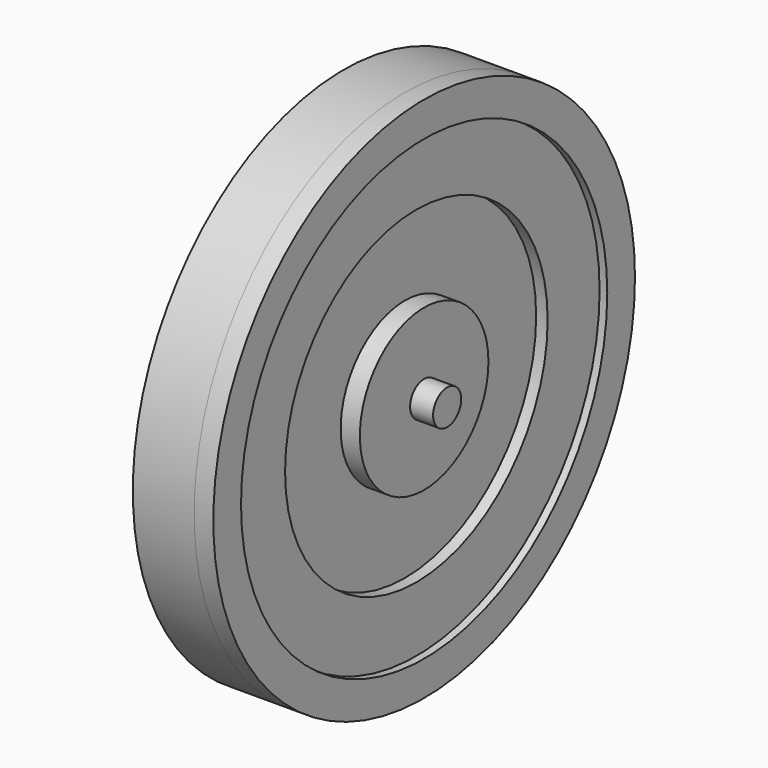
from build123d import *

# Parameters (mm, degrees)
F0_R      = 17.4625
F2_DEPTH  = 4.064
F1_R      = 17.4625
F4_R      = 15.1671185888
F4_R_2    = 10.8740036782
F6_DEPTH  = 0.762
F7_R      = 5.3249265158
F8_DEPTH  = 1.27
F5_R      = 17.4625
F5_R_2    = 15.1671185888
F9_R      = 1.1627372516
F10_DEPTH = 1.524


with BuildPart() as f2:
    # F0 (on Right) → F2 (new body)
    with BuildSketch(Plane.YZ):
        with Locations((16.3829997182, 19.938999787)):
            Circle(F0_R)
    extrude(amount=F2_DEPTH)


with BuildPart() as f2b:
    # F1 (on face) → F2, piece 2 (new body)
    with BuildSketch(Plane.YZ):
        with Locations((16.3829997182, 19.938999787)):
            Circle(F1_R)
    extrude(amount=F2_DEPTH)


with BuildPart() as f6:
    # F4 (on face) → F6 (new body)
    with BuildSketch(Plane.YZ.offset(4.064)):
        with Locations((16.3829997182, 19.938999787)):
            Circle(F4_R)
        with Locations((16.3731891662, 19.9432447553)):
            Circle(F4_R_2, mode=Mode.SUBTRACT)
    extrude(amount=F6_DEPTH)


with BuildPart() as f8:
    # F7 (on face) → F8 (new body)
    with BuildSketch(Plane.YZ.offset(4.064)):
        with Locations((16.3819398731, 19.9396852404)):
            Circle(F7_R)
    extrude(amount=F8_DEPTH)

    # F9 (on face) → F10 (join)
    with BuildSketch(Plane.YZ.offset(5.334)):
        with Locations((16.3819398731, 19.9396852404)):
            Circle(F9_R)
    extrude(amount=F10_DEPTH)


with BuildPart() as f8b:
    # F5 (on face) → F8, piece 2 (new body)
    with BuildSketch(Plane.YZ.offset(4.064)):
        with Locations((16.3829997182, 19.938999787)):
            Circle(F5_R)
        with Locations((16.3829997182, 19.938999787)):
            Circle(F5_R_2, mode=Mode.SUBTRACT)
    extrude(amount=F8_DEPTH)


solid = Compound([f2.part, f2b.part, f6.part, f8.part, f8b.part])
